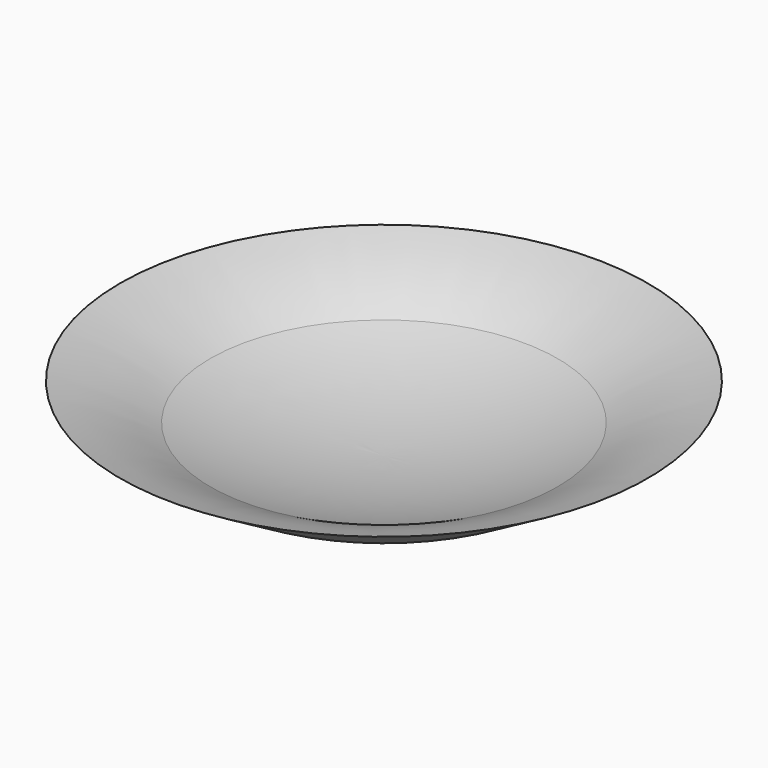
from build123d import *


with BuildPart() as f1:
    # F0 (on Front) → F1 (revolve)
    with BuildSketch(Plane.XZ):
        with BuildLine():
            ThreePointArc((9.592055, 11.256895), (-2.999356, 12.307203), (-15.242744, 15.429096))
            ThreePointArc((-15.242744, 15.429096), (-21.513272, 18.51608), (-28.152994, 20.698528))
            Line((-28.152994, 20.698528), (-16.083728, 13.603965))
            ThreePointArc((-16.083728, 13.603965), (-3.428533, 10.351341), (9.592055, 9.256895))
            Line((9.592055, 9.256895), (9.592055, 11.256895))
        make_face()
    revolve(axis=Axis((9.592055, 0, 10.256895), (0, 0, -1)))


solid = f1.part
